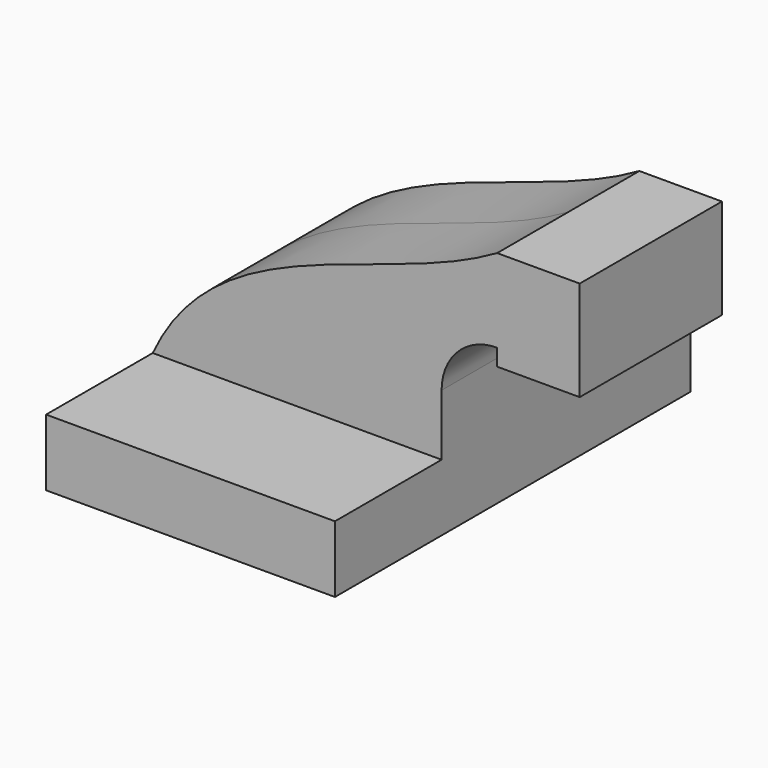
from build123d import *

# Parameters (mm, degrees)
F0_W     = 82.55
F0_H     = 19.05
F1_DEPTH = 63.5
F2_DEPTH = 25.4


with BuildPart() as f1:
    # F0 (on Front) → F1 (new body, symmetric)
    with BuildSketch(Plane.XZ):
        with Locations((-181.978246, -43.553286)):
            Rectangle(F0_W, F0_H)
    extrude(amount=F1_DEPTH, both=True)

    # F0 (on Front) → F2 (join, symmetric)
    with BuildSketch(Plane.XZ):
        with BuildLine():
            Line((-223.253246, -34.028286), (-140.703246, -34.028286))
            Line((-140.703246, -34.028286), (-140.703246, -16.553086))
            ThreePointArc((-140.703246, -16.553086), (-136.053567, -5.327766), (-124.828246, -0.678086))
            Line((-124.828246, -0.678086), (-124.828246, 18.371914))
            Line((-124.828246, 18.371914), (-124.828246, 23.121714))
            add(Edge.make_bspline(
                [(-223.253246, -34.028286), (-205.053285, 5.402646), (-157.63658, 4.071714), (-124.828246, 23.121714)],
                knots=[0, 0, 0, 0, 113.813897, 113.813897, 113.813897, 113.813897], degree=3))
        make_face()
        Polygon((-101.235092, 23.121714), (-124.828246, 23.121714), (-124.828246, 18.371914), (-124.828246, -0.678086), (-124.828246, -5.453286), (-101.235092, -5.453286), align=None)
    extrude(amount=F2_DEPTH, both=True)


solid = f1.part
